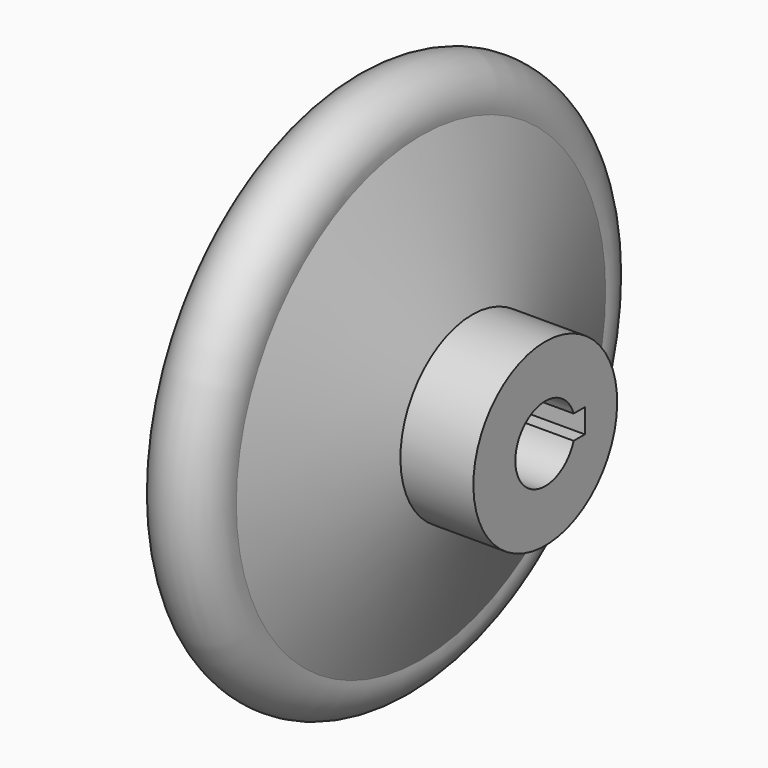
from build123d import *

# Parameters (mm, degrees)
F3_D     = 25
F2_W     = 8
F2_H     = 8
F4_DEPTH = 50


with BuildPart() as f1:
    # F0 (on Front) → F1 (revolve)
    with BuildSketch(Plane.XZ):
        with BuildLine():
            Line((16.157746, 30), (-8.200476, 30))
            Line((-8.200476, 30), (-25.330789, 77.065149))
            ThreePointArc((-25.330789, 77.065149), (-47.645877, 86.518166), (-32.521118, 67.582371))
            Line((-32.521118, 67.582371), (-18.842254, 30))
            Line((-18.842254, 30), (-18.842254, 0))
            Line((-18.842254, 0), (16.157746, 0))
            Line((16.157746, 0), (16.157746, 30))
        make_face()
    revolve(axis=Axis((-63.210286, 0, 0), (-1, 0, 0)))

    # F3 (through all)
    with Locations(Plane(origin=(-18.842254, 0, 0), x_dir=(0, -1, 0), z_dir=(-1, 0, 0))):
        with Locations((0, 0)):
            Hole(F3_D / 2)

    # F2 (on face) → F4 (cut)
    with BuildSketch(Plane(origin=(-18.842254, 0, 0), x_dir=(0, -1, 0), z_dir=(-1, 0, 0))):
        with Locations((-12.5, 0)):
            Rectangle(F2_W, F2_H)
    extrude(amount=-F4_DEPTH, mode=Mode.SUBTRACT)


solid = f1.part
